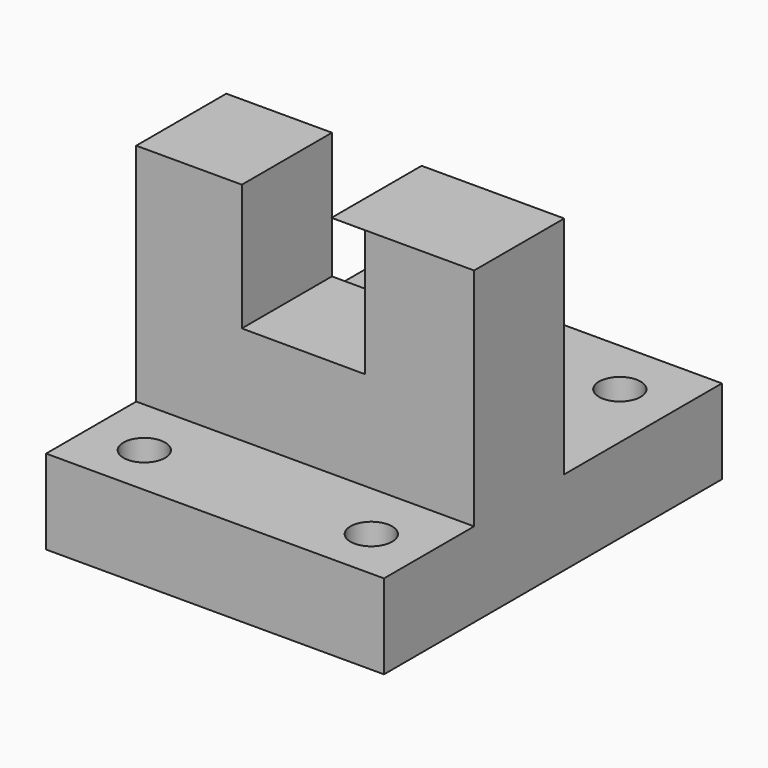
from build123d import *

# Parameters (mm, degrees)
F1_DEPTH = 76.2
F3_R     = 4.699
F4_DEPTH = 19.05
F5_DEPTH = 26.162


with BuildPart() as f1:
    # F0 (on Right) → F1 (new body)
    with BuildSketch(Plane.YZ):
        Polygon((-50.8, -31.816228), (44.45, -31.816228), (44.45, -12.766228), (0, -12.766228), (0, 38.033772), (-25.4, 38.033772), (-25.4, -12.766228), (-50.8, -12.766228), align=None)
    extrude(amount=F1_DEPTH)

    # F3 (on face) → F4 (cut)
    with BuildSketch(Plane.XY.offset(-12.766228)):
        with Locations((63.56959, 31.471644)):
            Circle(F3_R)
        with Locations((12.7, 31.471644)):
            Circle(F3_R)
        with Locations((12.7, -38.98726)):
            Circle(F3_R)
        with Locations((63.881002, -38.98726)):
            Circle(F3_R)
    extrude(amount=-F4_DEPTH, mode=Mode.SUBTRACT)

    # F2 (on Front) → F5 (cut)
    with BuildSketch(Plane.XZ):
        Polygon((51.643919, 9.441765), (51.643919, 38.016765), (23.8252, 38.07896), (23.8252, 9.50396), align=None)
    extrude(amount=F5_DEPTH, mode=Mode.SUBTRACT)


solid = f1.part
